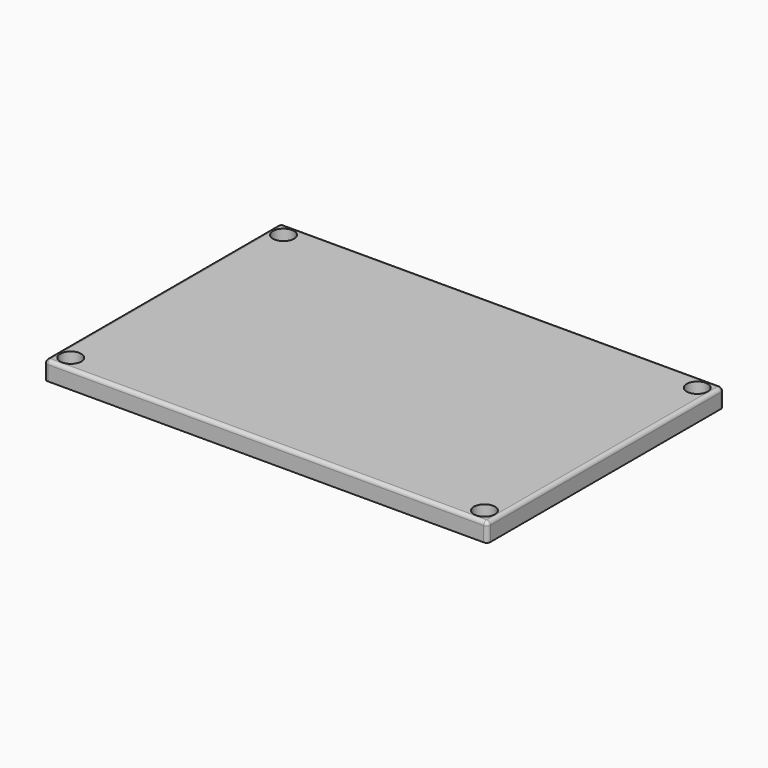
from build123d import *

# Parameters (mm, degrees)
SKETCH_W        = 120
SKETCH_H        = 80
PAD_DEPTH       = 5
SKETCH001_R     = 1.5
POCKET_DEPTH    = 3
SKETCH002_R     = 2.85
POCKET001_DEPTH = 3
FILLET_R        = 1
PAD001_DEPTH    = 3


with BuildPart() as part:
    # Sketch → Pad (new body)
    with BuildSketch(Plane.XY):
        Rectangle(SKETCH_W, SKETCH_H)
    extrude(amount=PAD_DEPTH)

    # Sketch001 (on Face5 of Pad) → Pocket (cut)
    with BuildSketch(Plane(origin=(0, 0, 0), x_dir=(1, 0, 0), z_dir=(0, 0, -1))):
        with Locations((56, 36)):
            Circle(SKETCH001_R)
        with Locations((56, -36)):
            Circle(SKETCH001_R)
        with Locations((-56, 36)):
            Circle(SKETCH001_R)
        with Locations((-56, -36)):
            Circle(SKETCH001_R)
        Polygon((56.1, 29.6), (49.6, 36.1), (-49.6, 36.1), (-56.1, 29.6), (-56.1, -29.6), (-49.6, -36.1), (49.6, -36.1), (56.1, -29.6), align=None)
    extrude(amount=-POCKET_DEPTH, mode=Mode.SUBTRACT)

    # Sketch002 (on Face5 of Pocket) → Pocket001 (cut)
    with BuildSketch(Plane.XY.offset(5)):
        with Locations((56, 36)):
            Circle(SKETCH002_R)
        with Locations((56, -36)):
            Circle(SKETCH002_R)
        with Locations((-56, 36)):
            Circle(SKETCH002_R)
        with Locations((-56, -36)):
            Circle(SKETCH002_R)
    extrude(amount=-POCKET001_DEPTH, mode=Mode.SUBTRACT)

    # Fillet
    fillet_edges = [part.edges().sort_by_distance(p)[0] for p in [
        (60, -40, 2.5),
        (0, -40, 5),
        (-60, -40, 2.5),
        (-60, 0, 5),
        (0, 40, 5),
        (60, 0, 5),
        (60, 40, 2.5),
        (-60, 40, 2.5),
    ]]
    fillet(fillet_edges, radius=FILLET_R)

    # CopySketch003 → Pad001 (join)
    with BuildSketch(Plane(origin=(0, 0, 3), x_dir=(1, 0, 0), z_dir=(0, 0, -1))):
        Polygon((-48.9, 33.9), (48.9, 33.9), (53.9, 28.9), (53.9, -28.9), (48.9, -33.9), (-48.9, -33.9), (-53.9, -28.9), (-53.9, 28.9), align=None)
        Polygon((-48.2, 31.8), (48.2, 31.8), (51.8, 28.2), (51.8, -28.2), (48.2, -31.8), (-48.2, -31.8), (-51.8, -28.2), (-51.8, 28.2), align=None, mode=Mode.SUBTRACT)
    extrude(amount=PAD001_DEPTH)


solid = part.part
